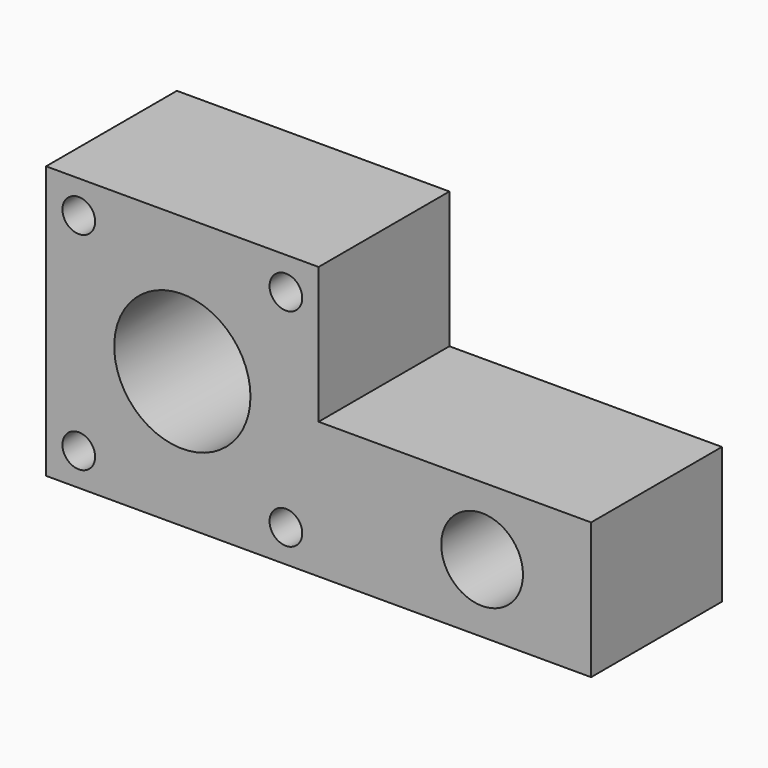
from build123d import *

# Parameters (mm, degrees)
F0_R     = 3
F0_R_2   = 12.5
F0_R_3   = 7.5
F1_DEPTH = 30


with BuildPart() as f1:
    # F0 (on Front) → F1 (new body)
    with BuildSketch(Plane.XZ):
        Polygon((4.39074, 26.841277), (-45.60926, 26.841277), (-45.60926, -23.158723), (54.39074, -23.158723), (54.39074, 1.841277), (4.39074, 1.841277), align=None)
        with Locations((-39.60926, -17.158723)):
            Circle(F0_R, mode=Mode.SUBTRACT)
        with Locations((-1.60926, -17.158723)):
            Circle(F0_R, mode=Mode.SUBTRACT)
        with Locations((-20.60926, 1.841277)):
            Circle(F0_R_2, mode=Mode.SUBTRACT)
        with Locations((34.39074, -10.658723)):
            Circle(F0_R_3, mode=Mode.SUBTRACT)
        with Locations((-39.60926, 20.841277)):
            Circle(F0_R, mode=Mode.SUBTRACT)
        with Locations((-1.60926, 20.841277)):
            Circle(F0_R, mode=Mode.SUBTRACT)
    extrude(amount=F1_DEPTH)


solid = f1.part
